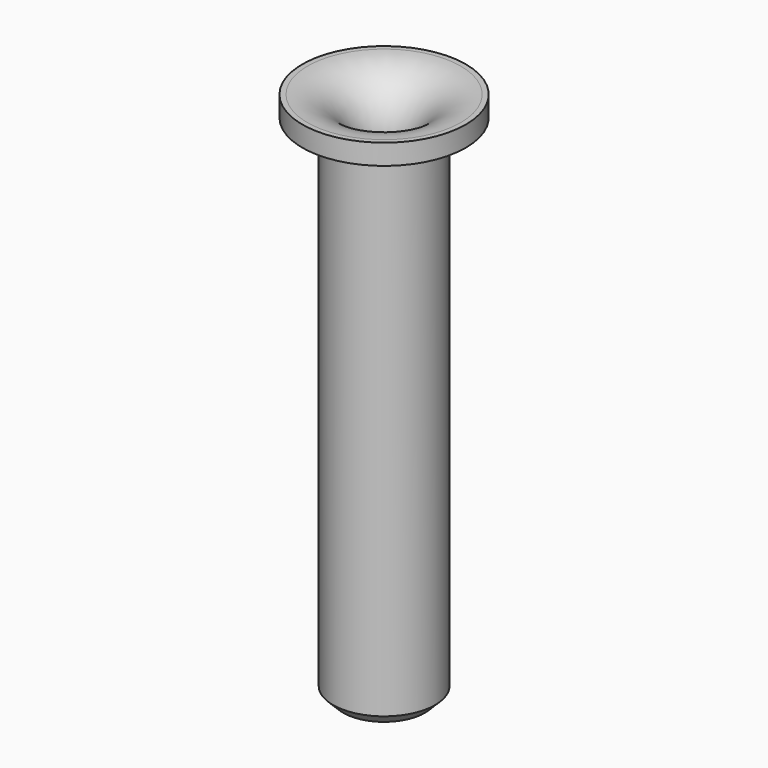
from build123d import *

# Parameters (mm, degrees)
F2_R    = 5
F3_SIZE = 1


with BuildPart() as f1:
    # F0 (on Front) → F1 (revolve)
    with BuildSketch(Plane.XZ):
        Polygon((2.5, 52), (2.5, 0), (5, 0), (5, 50), (8, 50), (8, 52), align=None)
    revolve(axis=Axis((0, 0, 22.814085), (0, 0, -1)))

    # F2
    f2_edges = [f1.edges().sort_by_distance(p)[0] for p in [
        (-2.5, 0, 52),
    ]]
    fillet(f2_edges, radius=F2_R)

    # F3
    f3_edges = [f1.edges().sort_by_distance(p)[0] for p in [
        (-5, 0, 0),
    ]]
    chamfer(f3_edges, length=F3_SIZE)


solid = f1.part
